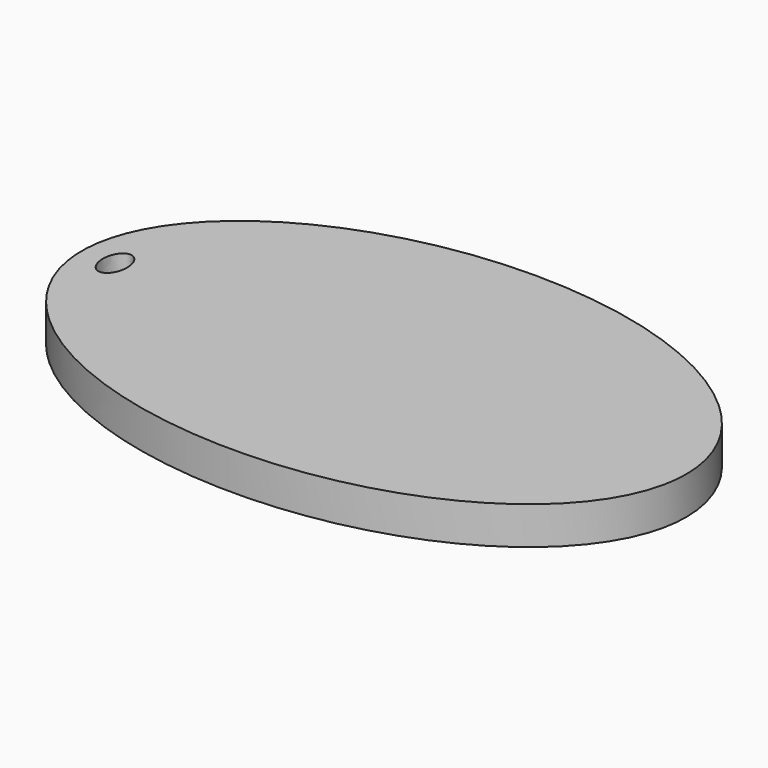
from build123d import *

# Parameters (mm, degrees)
F1_DEPTH = 3.175


with BuildPart() as f1:
    # F0 (on Top) → F1 (new body)
    with BuildSketch(Plane.XY):
        with BuildLine():
            add(Edge.make_bspline(
                [(25.4, 0), (25.4, 27.496307), (-12.7, 13.748153), (-50.8, 0), (-12.7, -13.748153), (25.4, -27.496307), (25.4, 0)],
                knots=[0, 0, 0, 2.094395, 2.094395, 4.18879, 4.18879, 6.283185, 6.283185, 6.283185], degree=2, weights=[1, 0.5, 1, 0.5, 1, 0.5, 1]))
        make_face()
        with BuildLine():
            add(Edge.make_bspline(
                [(-21.59, 0), (-21.59, 2.749631), (-23.114, 1.374815), (-24.638, 0), (-23.114, -1.374815), (-21.59, -2.749631), (-21.59, 0)],
                knots=[4.712389, 4.712389, 4.712389, 6.806784, 6.806784, 8.901179, 8.901179, 10.995574, 10.995574, 10.995574], degree=2, weights=[1, 0.5, 1, 0.5, 1, 0.5, 1]))
        make_face(mode=Mode.SUBTRACT)
    extrude(amount=F1_DEPTH)


solid = f1.part
